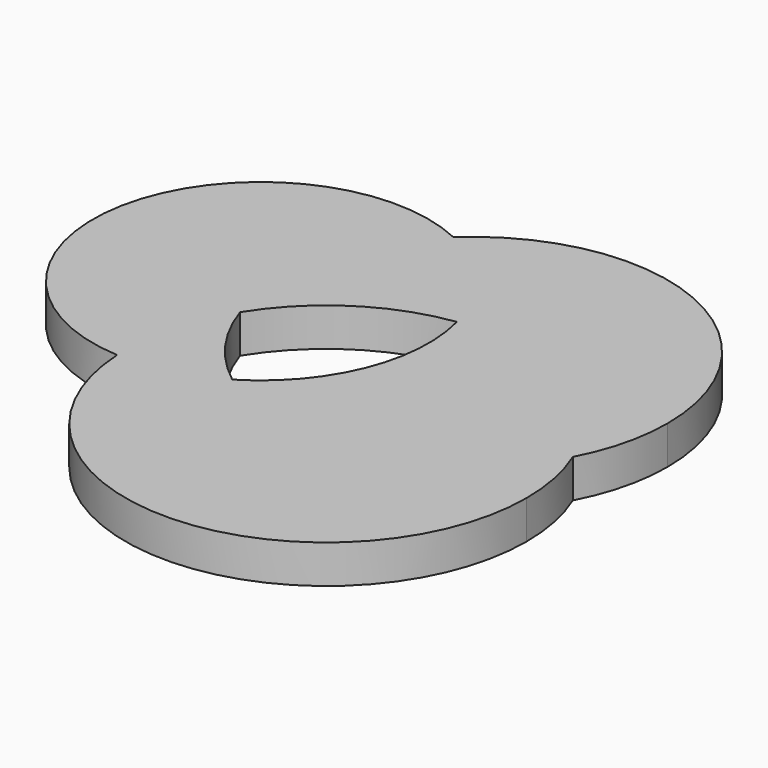
from build123d import *

# Parameters (mm, degrees)
F1_DEPTH = 25.4
F2_DEPTH = 25.4


with BuildPart() as f1:
    # F0 (on Top) → F1 (new body)
    with BuildSketch(Plane.XY):
        with BuildLine():
            ThreePointArc((-315.6019023562, -32.6826199509), (-318.4183283242, 39.5426032128), (-281.8359385816, 101.8815467151))
            ThreePointArc((-281.8359385816, 101.8815467151), (-436.6758896837, 28.3594374997), (-335.2973759174, -109.8552793264))
            ThreePointArc((-335.2973759174, -109.8552793264), (-331.3687262504, -69.7583210728), (-315.6019023562, -32.6826199509))
        make_face()
    extrude(amount=F1_DEPTH)

    # F0 (on Top) → F2 (join)
    with BuildSketch(Plane.XY):
        with BuildLine():
            ThreePointArc((-79.9014859048, -51.7507978379), (-68.8208634035, -22.6606255776), (-65.053764951, 8.2396541364))
            ThreePointArc((-65.053764951, 8.2396541364), (-142.6673362581, 126.310940707), (-281.8359385816, 101.8815467151))
            ThreePointArc((-281.8359385816, 101.8815467151), (-243.3631957967, 72.1966260194), (-221.225701345, 28.9383575207))
            ThreePointArc((-221.225701345, 28.9383575207), (-136.7635945542, 12.7639924689), (-79.9014859048, -51.7507978379))
        make_face()
        with BuildLine():
            ThreePointArc((-221.225701345, 28.9383575207), (-243.3631957967, 72.1966260194), (-281.8359385816, 101.8815467151))
            ThreePointArc((-281.8359385816, 101.8815467151), (-318.4183283242, 39.5426032128), (-315.6019023562, -32.6826199509))
            ThreePointArc((-315.6019023562, -32.6826199509), (-275.2722761941, 8.6320311632), (-221.225701345, 28.9383575207))
        make_face()
        with BuildLine():
            ThreePointArc((-315.6019023562, -32.6826199509), (-318.4183283242, 39.5426032128), (-281.8359385816, 101.8815467151))
            ThreePointArc((-281.8359385816, 101.8815467151), (-436.6758896837, 28.3594374997), (-335.2973759174, -109.8552793264))
            ThreePointArc((-335.2973759174, -109.8552793264), (-331.3687262504, -69.7583210728), (-315.6019023562, -32.6826199509))
        make_face()
        with BuildLine():
            ThreePointArc((-69.780417974, -102.6121676804), (-72.3352495295, -76.6828649598), (-79.9014859048, -51.7507978379))
            ThreePointArc((-79.9014859048, -51.7507978379), (-165.9057883113, -117.3439369187), (-271.5458587141, -94.1194788586))
            ThreePointArc((-271.5458587141, -94.1194788586), (-302.2334146079, -106.8012254251), (-335.2973759174, -109.8552793264))
            ThreePointArc((-335.2973759174, -109.8552793264), (-199.0147873045, -235.4200341849), (-69.780417974, -102.6121676804))
        make_face()
        with BuildLine():
            ThreePointArc((-271.5458587141, -94.1194788586), (-165.9057883113, -117.3439369187), (-79.9014859048, -51.7507978379))
            ThreePointArc((-79.9014859048, -51.7507978379), (-136.7635945542, 12.7639924689), (-221.225701345, 28.9383575207))
            ThreePointArc((-221.225701345, 28.9383575207), (-218.5810582552, 15.1514888677), (-217.6948008537, 1.1412628828))
            ThreePointArc((-217.6948008537, 1.1412628828), (-232.0893888758, -53.5728700031), (-271.5458587141, -94.1194788586))
        make_face()
        with BuildLine():
            ThreePointArc((-271.5458587141, -94.1194788586), (-298.1898791759, -66.711157395), (-315.6019023562, -32.6826199509))
            ThreePointArc((-315.6019023562, -32.6826199509), (-331.3687262504, -69.7583210728), (-335.2973759174, -109.8552793264))
            ThreePointArc((-335.2973759174, -109.8552793264), (-302.2334146079, -106.8012254251), (-271.5458587141, -94.1194788586))
        make_face()
    extrude(amount=F2_DEPTH)


solid = f1.part
